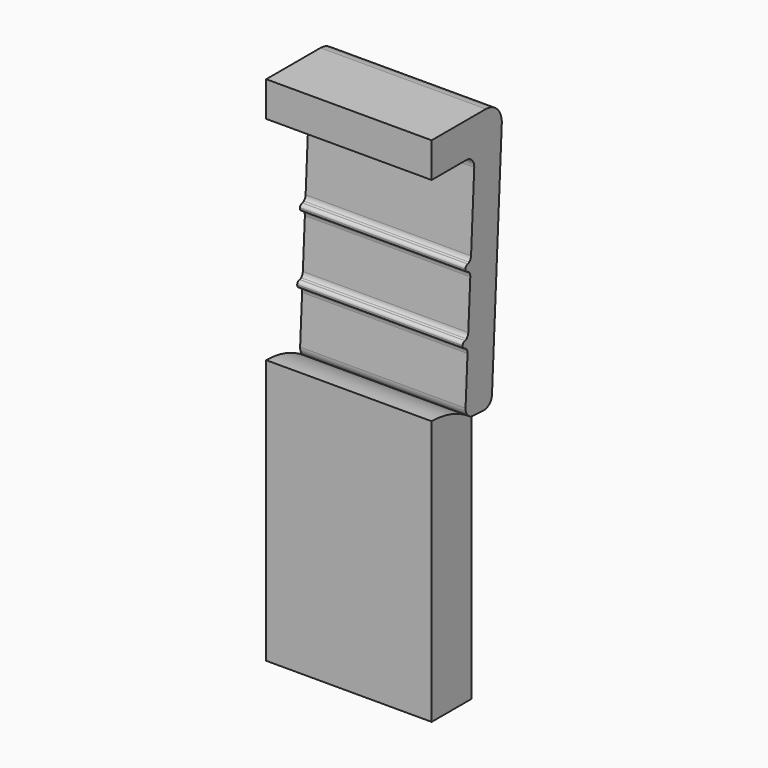
from build123d import *

# Parameters (mm, degrees)
F0_DEPTH  = 5
F1_R      = 0.3
F2_R      = 0.1
F9_R      = 0.2
F10_R     = 0.1
F3_R      = 0.1
F4_R      = 0.2
F5_R      = 0.2
F6_R      = 0.1
F11_R     = 0.1
F7_R      = 0.3
F13_DEPTH = 5


with BuildPart() as f0:
    # F8 (on Right) → F0 (new body)
    with BuildSketch(Plane.YZ):
        with BuildLine():
            Line((2.050822, 0), (0, 0))
            Line((0, 0), (0, -1.056272))
            Line((0, -1.056272), (1.626361, -1.056272))
            Line((1.626361, -1.056272), (1.484486, -3.763406))
            Line((1.484486, -3.763406), (1.389899, -3.848573))
            Line((1.389899, -3.848573), (1.28005, -3.842816))
            Line((1.28005, -3.842816), (1.269583, -4.042542))
            Line((1.269583, -4.042542), (1.379432, -4.048299))
            Line((1.379432, -4.048299), (1.464599, -4.142886))
            Line((1.464599, -4.142886), (1.379814, -5.760665))
            Line((1.379814, -5.760665), (1.285227, -5.845832))
            Line((1.285227, -5.845832), (1.175378, -5.840075))
            Line((1.175378, -5.840075), (1.164911, -6.039801))
            Line((1.164911, -6.039801), (1.27476, -6.045558))
            Line((1.27476, -6.045558), (1.359927, -6.140145))
            Line((1.359927, -6.140145), (1.265199, -7.947664))
            Line((1.265199, -7.947664), (2.263828, -8))
            Line((2.263828, -8), (2.65, -0.631402))
            ThreePointArc((2.65, -0.631402), (2.486047, -0.186987), (2.050822, 0))
        make_face()
    extrude(amount=F0_DEPTH)

    # F1
    f1_edges = [f0.edges().sort_by_distance(p)[0] for p in [
        (2.5, 1.265199, -7.947664),
        (2.5, 2.263828, -8),
    ]]
    fillet(f1_edges, radius=F1_R)

    # F2
    f2_edges = [f0.edges().sort_by_distance(p)[0] for p in [
        (2.5, 1.27476, -6.045558),
    ]]
    fillet(f2_edges, radius=F2_R)

    # F9
    f9_edges = [f0.edges().sort_by_distance(p)[0] for p in [
        (2.5, 1.359927, -6.140145),
    ]]
    fillet(f9_edges, radius=F9_R)

    # F10
    f10_edges = [f0.edges().sort_by_distance(p)[0] for p in [
        (2.5, 1.285227, -5.845832),
    ]]
    fillet(f10_edges, radius=F10_R)

    # F3
    f3_edges = [f0.edges().sort_by_distance(p)[0] for p in [
        (2.5, 1.175378, -5.840075),
        (2.5, 1.164911, -6.039801),
    ]]
    fillet(f3_edges, radius=F3_R)

    # F4
    f4_edges = [f0.edges().sort_by_distance(p)[0] for p in [
        (2.5, 1.379814, -5.760665),
    ]]
    fillet(f4_edges, radius=F4_R)

    # F5
    f5_edges = [f0.edges().sort_by_distance(p)[0] for p in [
        (2.5, 1.464599, -4.142886),
        (2.5, 1.484486, -3.763406),
    ]]
    fillet(f5_edges, radius=F5_R)

    # F6
    f6_edges = [f0.edges().sort_by_distance(p)[0] for p in [
        (2.5, 1.379432, -4.048299),
        (2.5, 1.389899, -3.848573),
    ]]
    fillet(f6_edges, radius=F6_R)

    # F11
    f11_edges = [f0.edges().sort_by_distance(p)[0] for p in [
        (2.5, 1.269583, -4.042542),
        (2.5, 1.28005, -3.842816),
    ]]
    fillet(f11_edges, radius=F11_R)

    # F7
    f7_edges = [f0.edges().sort_by_distance(p)[0] for p in [
        (2.5, 1.626361, -1.056272),
    ]]
    fillet(f7_edges, radius=F7_R)


with BuildPart() as f13:
    # F12 (on Right) → F13 (new body)
    with BuildSketch(Plane.YZ):
        with BuildLine():
            Line((1.5, -15.475065), (1.5, -7.975065))
            ThreePointArc((1.5, -7.975065), (0.790569, -7.603357), (0, -7.475065))
            Line((0, -7.475065), (0, -15.475065))
            Line((0, -15.475065), (1.5, -15.475065))
        make_face()
    extrude(amount=F13_DEPTH)


solid = Compound([f0.part, f13.part])
